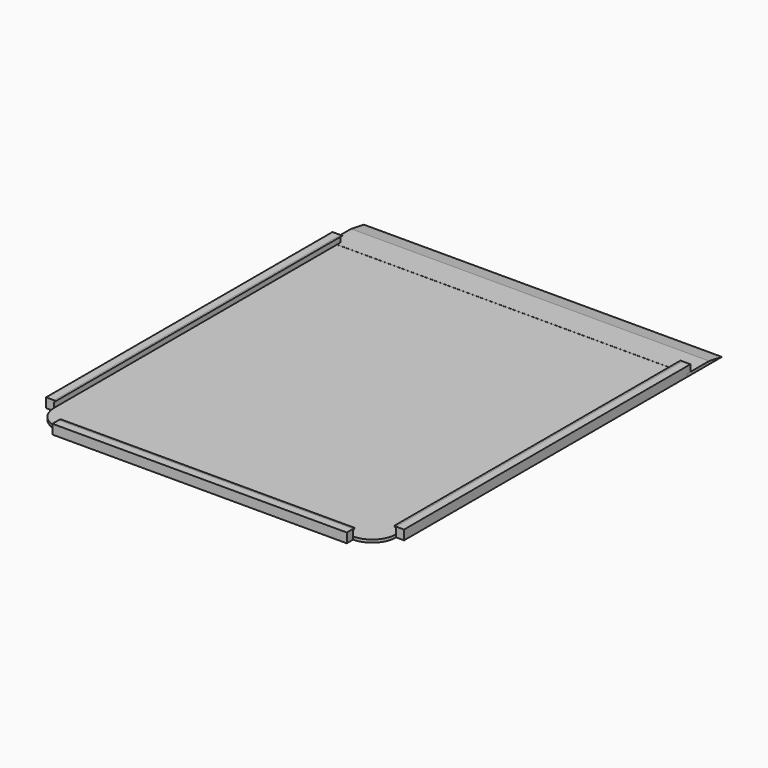
from build123d import *

# Parameters (mm, degrees)
F1_DEPTH  = 0.4445
F0_W      = 1.27
F0_H      = 57.15
F0_W_2    = 46.99
F0_H_2    = 1.27
F2_DEPTH  = 1.524
F4_DEPTH  = 57.15
F6_DEPTH  = 57.15
F8_DEPTH  = 46.99
F9_W      = 57.15
F9_H      = 6.978494
F10_DEPTH = 0.4572
F12_DEPTH = 76.2


with BuildPart() as f1:
    # F0 (on Top) → F1 (new body)
    with BuildSketch(Plane.XY):
        with BuildLine():
            Line((26.056772, 30.48), (-27.305, 30.48))
            Line((-27.305, 30.48), (-27.305, -26.67))
            ThreePointArc((-27.305, -26.67), (-26.189077, -29.364077), (-23.495, -30.48))
            Line((-23.495, -30.48), (23.495, -30.48))
            ThreePointArc((23.495, -30.48), (26.189077, -29.364077), (27.305, -26.67))
            Line((27.305, -26.67), (27.305, 30.48))
            Line((27.305, 30.48), (26.056772, 30.48))
        make_face()
    extrude(amount=F1_DEPTH)

    # F0 (on Top) → F2 (join)
    with BuildSketch(Plane.XY):
        with Locations((-27.94, 1.905)):
            Rectangle(F0_W, F0_H)
        with Locations((27.94, 1.905)):
            Rectangle(F0_W, F0_H)
        with Locations((0, -31.115)):
            Rectangle(F0_W_2, F0_H_2)
    extrude(amount=F2_DEPTH)


with BuildPart() as f4:
    # F3 (on face) → F4 (new body)
    with BuildSketch(Plane.XZ.offset(26.67)):
        Polygon((27.305, 1.27), (27.305, 1.524), (26.9875, 1.524), align=None)
    extrude(amount=-F4_DEPTH)


with BuildPart() as f6:
    # F5 (on face) → F6 (new body)
    with BuildSketch(Plane.XZ.offset(26.67)):
        Polygon((-26.9875, 1.524), (-27.305, 1.524), (-27.305, 1.27), align=None)
    extrude(amount=-F6_DEPTH)


with BuildPart() as f8:
    # F7 (on face) → F8 (new body, through all)
    with BuildSketch(Plane.YZ.offset(23.495)):
        Polygon((-30.1625, 1.524), (-30.48, 1.524), (-30.48, 1.27), align=None)
    extrude(amount=-F8_DEPTH)


with BuildPart() as f10:
    # F9 (on Top) → F10 (new body)
    with BuildSketch(Plane.XY):
        with Locations((0, 33.27965)):
            Rectangle(F9_W, F9_H)
    extrude(amount=F10_DEPTH)

    # F11 (on face) → F12 (cut)
    with BuildSketch(Plane.YZ.offset(28.575)):
        Polygon((34.203231, 0.4572), (36.768897, 0), (36.768897, 0.4572), align=None)
    extrude(amount=-F12_DEPTH, mode=Mode.SUBTRACT)


solid = Compound([f1.part, f4.part, f6.part, f8.part, f10.part])
